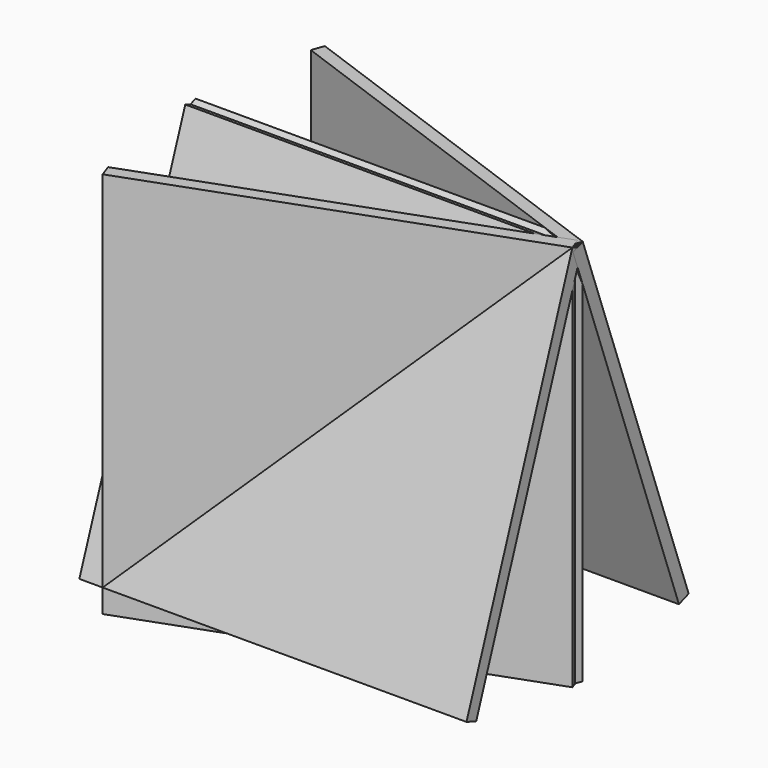
from build123d import *

# Parameters (mm, degrees)
F0_W     = 60
F0_H     = 60
F1_DEPTH = 2
F2_ANGLE = 20
F3_ANGLE = 340
F4_ANGLE = 20
F5_ANGLE = 340


with BuildPart() as f1:
    # F0 (on Front) → F1 (new body)
    with BuildSketch(Plane.XZ):
        with Locations((-30, -30)):
            Rectangle(F0_W, F0_H)
    extrude(amount=F1_DEPTH)


with BuildPart() as f2_1:
    # F2: copy of F1
    add(f1.part.rotate(Axis((-30, -2, 0), (-1, 0, 0)), F2_ANGLE))


with BuildPart() as f3_1:
    # F3: copy of F1
    add(f1.part.rotate(Axis((-30, 0, 0), (-1, 0, 0)), F3_ANGLE))


with BuildPart() as f4_1:
    # F4: copy of F1
    add(f1.part.rotate(Axis((0, 0, -30), (0, 0, -1)), F4_ANGLE))


with BuildPart() as f5_1:
    # F5: copy of F1
    add(f1.part.rotate(Axis((0, -2, -30), (0, 0, -1)), F5_ANGLE))


solid = Compound([f2_1.part, f3_1.part, f4_1.part, f5_1.part])
